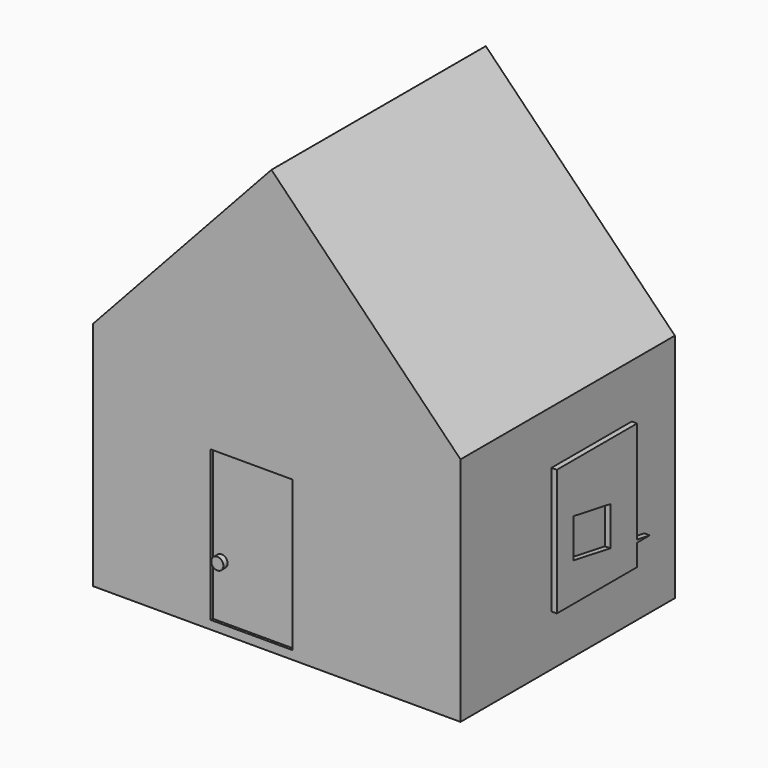
from build123d import *

# Parameters (mm, degrees)
F0_W     = 174.1194725037
F0_H     = 109.5531731844
F1_DEPTH = 127
F2_W     = 38.9005169272
F2_H     = 71.2012238801
F3_DEPTH = 1.27
F4_R     = 2.870090853
F5_DEPTH = 2.54
F7_DEPTH = 2.54


with BuildPart() as f1:
    # F0 (on Front) → F1 (new body)
    with BuildSketch(Plane.XZ):
        with Locations((-87.0597362518, -54.7765865922)):
            Rectangle(F0_W, F0_H)
        Polygon((-174.1194725037, 0), (0, 0), (-89.6153151989, 91.6864871979), align=None)
    extrude(amount=F1_DEPTH)

    # F2 (on face) → F3 (cut)
    with BuildSketch(Plane.XZ.offset(127)):
        with Locations((-98.9855192602, -69.9048843235)):
            Rectangle(F2_W, F2_H)
    extrude(amount=-F3_DEPTH, mode=Mode.SUBTRACT)

    # F4 (on face) → F5 (join)
    with BuildSketch(Plane.XZ.offset(125.73)):
        with Locations((-114.2556890845, -80.1247730851)):
            Circle(F4_R)
    extrude(amount=F5_DEPTH)

    # F6 (on face) → F7 (join)
    with BuildSketch(Plane.YZ):
        Polygon((-63.096486032, -25.4311673343), (-73.1122642756, -25.4311673343), (-73.1122642756, -47.0497577235), (-71.9686165237, -47.2507400464), (-63.096486032, -48.8099101597), align=None)
        Polygon((-41.3957126439, -25.4311673343), (-63.096486032, -25.4311673343), (-63.096486032, -48.8099101597), (-41.3957126439, -52.6235598049), align=None)
        Polygon((-71.9686165237, -47.2507400464), (-73.1122642756, -47.0497577235), (-73.1122642756, -65.521992743), (-63.096486032, -67.276372096), (-63.096486032, -48.8099101597), align=None)
        Polygon((-25.5374331027, -25.4311673343), (-41.3957126439, -25.4311673343), (-41.3957126439, -52.6235598049), (-25.5374331027, -55.4104615003), align=None)
        Polygon((-63.096486032, -67.276372096), (-73.1122642756, -65.521992743), (-73.1122642756, -85.3897556663), (-63.096486032, -85.3897556663), align=None)
        Polygon((-25.5374331027, -55.4104615003), (-41.3957126439, -52.6235598049), (-41.3957126439, -71.0775134402), (-25.5374331027, -73.8552744413), align=None)
        Polygon((-41.3957126439, -71.0775134402), (-63.096486032, -67.276372096), (-63.096486032, -85.3897556663), (-41.3957126439, -85.3897556663), align=None)
        Polygon((-25.5374331027, -73.8552744413), (-41.3957126439, -71.0775134402), (-41.3957126439, -85.3897556663), (-25.5374331027, -85.3897556663), (-25.5374331027, -75.1710534096), align=None)
        Polygon((-18.025631085, -75.1710534096), (-25.5374331027, -73.8552744413), (-25.5374331027, -75.1710534096), align=None)
    extrude(amount=F7_DEPTH)


solid = f1.part
